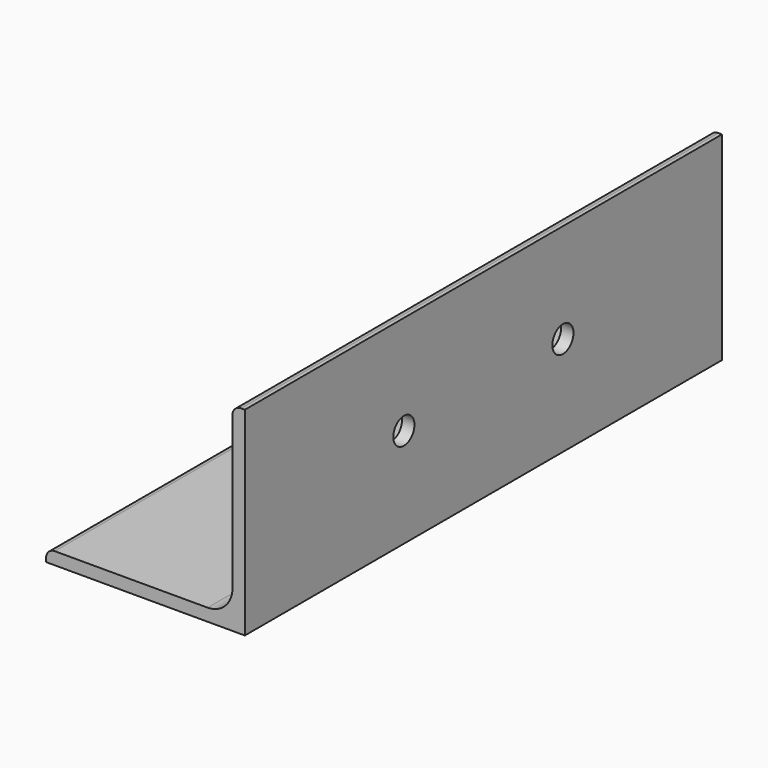
from build123d import *

# Parameters (mm, degrees)
F1_DEPTH   = 152.4
F4_D       = 13.49248
F4_ON_F2_D = 13.49248


with BuildPart() as f1:
    # F0 (on Front) → F1 (new body, symmetric)
    with BuildSketch(Plane.XZ):
        with BuildLine():
            Line((-101.6, 1.905), (-101.6, 0))
            Line((-101.6, 0), (0, 0))
            Line((0, 0), (0, 101.6))
            Line((0, 101.6), (-1.905, 101.6))
            ThreePointArc((-1.905, 101.6), (-5.0480896424, 100.2980896424), (-6.35, 97.155))
            Line((-6.35, 97.155), (-6.35, 19.05))
            ThreePointArc((-6.35, 19.05), (-10.0697438789, 10.0697438789), (-19.05, 6.35))
            Line((-19.05, 6.35), (-97.155, 6.35))
            ThreePointArc((-97.155, 6.35), (-100.2980896424, 5.0480896424), (-101.6, 1.905))
        make_face()
    extrude(amount=F1_DEPTH, both=True)

    # F4 (through all)
    with Locations(Plane.YZ):
        with Locations((-50.8, 50.8), (50.8, 50.8)):
            Hole(F4_D / 2)

    # F4 on F2 (through all)
    with Locations(Plane(origin=(0, 0, 0), x_dir=(1, 0, 0), z_dir=(0, 0, -1))):
        with Locations((-50.8, 50.8), (-50.8, -50.8)):
            Hole(F4_ON_F2_D / 2)


solid = f1.part
